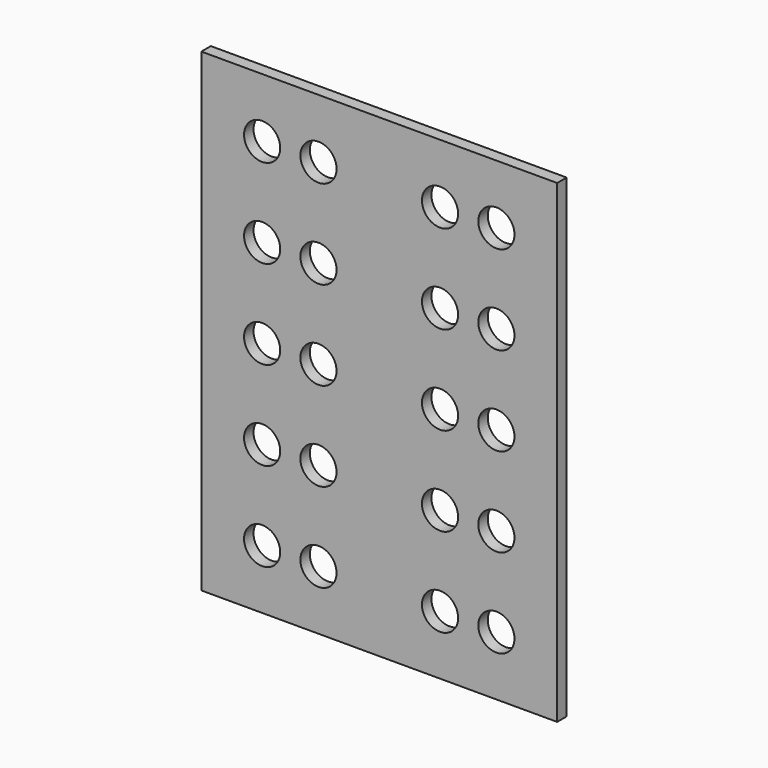
from build123d import *

# Parameters (mm, degrees)
F0_W     = 120
F0_H     = 160
F0_R     = 6.1
F1_DEPTH = 4


with BuildPart() as f1:
    # F0 (on Front) → F1 (new body)
    with BuildSketch(Plane.XZ):
        Rectangle(F0_W, F0_H)
        with Locations((-39.5, -60)):
            Circle(F0_R, mode=Mode.SUBTRACT)
        with Locations((-20.5, -60)):
            Circle(F0_R, mode=Mode.SUBTRACT)
        with Locations((-39.5, -30)):
            Circle(F0_R, mode=Mode.SUBTRACT)
        with Locations((-20.5, -30)):
            Circle(F0_R, mode=Mode.SUBTRACT)
        with Locations((20.5, -60)):
            Circle(F0_R, mode=Mode.SUBTRACT)
        with Locations((39.5, -60)):
            Circle(F0_R, mode=Mode.SUBTRACT)
        with Locations((20.5, -30)):
            Circle(F0_R, mode=Mode.SUBTRACT)
        with Locations((39.5, -30)):
            Circle(F0_R, mode=Mode.SUBTRACT)
        with Locations((-39.5, 0)):
            Circle(F0_R, mode=Mode.SUBTRACT)
        with Locations((-39.5, 30)):
            Circle(F0_R, mode=Mode.SUBTRACT)
        with Locations((-20.5, 0)):
            Circle(F0_R, mode=Mode.SUBTRACT)
        with Locations((-20.5, 30)):
            Circle(F0_R, mode=Mode.SUBTRACT)
        with Locations((-39.5, 60)):
            Circle(F0_R, mode=Mode.SUBTRACT)
        with Locations((-20.5, 60)):
            Circle(F0_R, mode=Mode.SUBTRACT)
        with Locations((20.5, 0)):
            Circle(F0_R, mode=Mode.SUBTRACT)
        with Locations((20.5, 30)):
            Circle(F0_R, mode=Mode.SUBTRACT)
        with Locations((39.5, 0)):
            Circle(F0_R, mode=Mode.SUBTRACT)
        with Locations((39.5, 30)):
            Circle(F0_R, mode=Mode.SUBTRACT)
        with Locations((20.5, 60)):
            Circle(F0_R, mode=Mode.SUBTRACT)
        with Locations((39.5, 60)):
            Circle(F0_R, mode=Mode.SUBTRACT)
    extrude(amount=-F1_DEPTH)


solid = f1.part
